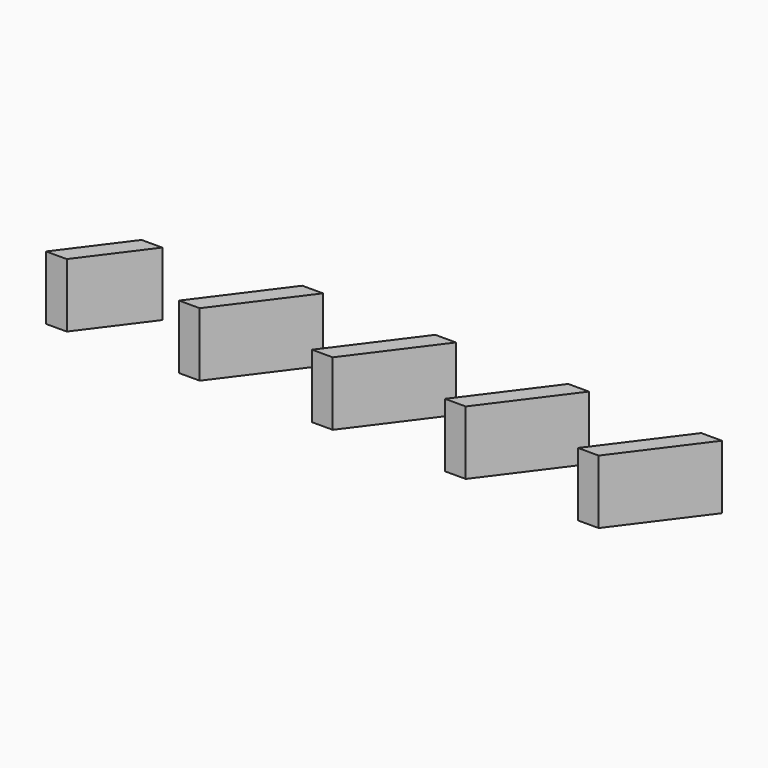
from build123d import *

# Parameters (mm, degrees)
F1_DEPTH      = 6
F1_DEPTH_BACK = 6


with BuildPart() as f1:
    # F0 (on Top) → F1 (new body, two sides)
    with BuildSketch(Plane.XY) as f1_sk:
        Polygon((-32.416085, -12), (-21.240598, 2.996326), (-25.127726, 2.996326), (-36.303213, -12), align=None)
        Polygon((17.583915, -12), (28.759402, 2.996326), (24.872274, 2.996326), (13.696787, -12), align=None)
        Polygon((42.583915, -12), (53.759402, 2.996326), (49.872274, 2.996326), (38.696787, -12), align=None)
        Polygon((-7.416085, -12), (3.759402, 2.996326), (-0.127726, 2.996326), (-11.303213, -12), align=None)
        Polygon((-52.644491, -0.380907), (-61.303213, -12), (-57.416085, -12), (-48.757362, -0.380907), align=None)
    extrude(amount=F1_DEPTH)
    extrude(f1_sk.sketch, amount=-F1_DEPTH_BACK)


solid = f1.part
